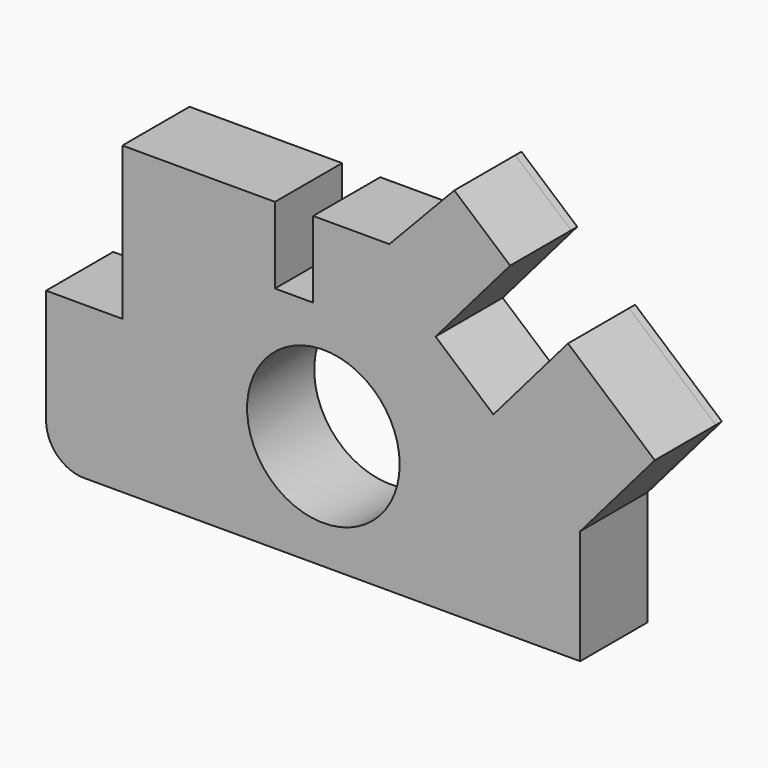
from build123d import *

# Parameters (mm, degrees)
F0_R      = 254
F1_DEPTH  = 25.4
F1_FACE_R = 254
F2_DEPTH  = 254


with BuildPart() as f1:
    # F0 (on Front) → F1 (new body)
    with BuildSketch(Plane.XZ):
        with BuildLine():
            Line((127, 0), (1778, 0))
            Line((1778, 0), (1778, 381))
            Line((1778, 381), (2026.406484, 669.886169))
            Line((2026.406484, 669.886169), (1737.520315, 918.292653))
            Line((1737.520315, 918.292653), (1489.113831, 629.406484))
            Line((1489.113831, 629.406484), (1296.523052, 795.010807))
            Line((1296.523052, 795.010807), (1544.929536, 1083.896976))
            Line((1544.929536, 1083.896976), (1359.019002, 1243.757111))
            Line((1359.019002, 1243.757111), (1143, 1016))
            Line((1143, 1016), (889, 1016))
            Line((889, 1016), (889, 762))
            Line((889, 762), (762, 762))
            Line((762, 762), (762, 1016))
            Line((762, 1016), (254, 1016))
            Line((254, 1016), (254, 508))
            Line((254, 508), (0, 508))
            Line((0, 508), (0, 127))
            ThreePointArc((0, 127), (37.197439, 37.197439), (127, 0))
        make_face()
        with Locations((923.134387, 381)):
            Circle(F0_R, mode=Mode.SUBTRACT)
    extrude(amount=F1_DEPTH)

    # F0 (on Front) + F1_face (on face) → F2 (join)
    with BuildSketch(Plane.XZ):
        with BuildLine():
            Line((127, 0), (1778, 0))
            Line((1778, 0), (1778, 381))
            Line((1778, 381), (2026.406484, 669.886169))
            Line((2026.406484, 669.886169), (1737.520315, 918.292653))
            Line((1737.520315, 918.292653), (1489.113831, 629.406484))
            Line((1489.113831, 629.406484), (1296.523052, 795.010807))
            Line((1296.523052, 795.010807), (1544.929536, 1083.896976))
            Line((1544.929536, 1083.896976), (1359.019002, 1243.757111))
            Line((1359.019002, 1243.757111), (1143, 1016))
            Line((1143, 1016), (889, 1016))
            Line((889, 1016), (889, 762))
            Line((889, 762), (762, 762))
            Line((762, 762), (762, 1016))
            Line((762, 1016), (254, 1016))
            Line((254, 1016), (254, 508))
            Line((254, 508), (0, 508))
            Line((0, 508), (0, 127))
            ThreePointArc((0, 127), (37.197439, 37.197439), (127, 0))
        make_face()
        with Locations((923.134387, 381)):
            Circle(F0_R, mode=Mode.SUBTRACT)
    with BuildSketch(Plane(origin=(967.928983, -25.4, 497.217744), x_dir=(1, 0, 0), z_dir=(0, -1, 0))):
        with BuildLine():
            ThreePointArc((-967.928983, -370.217744), (-930.731544, -460.020305), (-840.928983, -497.217744))
            Line((-840.928983, -497.217744), (810.071017, -497.217744))
            Line((810.071017, -497.217744), (810.071017, -116.217744))
            Line((810.071017, -116.217744), (1058.477502, 172.668425))
            Line((1058.477502, 172.668425), (769.591332, 421.07491))
            Line((769.591332, 421.07491), (521.184848, 132.18874))
            Line((521.184848, 132.18874), (328.594069, 297.793063))
            Line((328.594069, 297.793063), (577.000553, 586.679232))
            Line((577.000553, 586.679232), (391.090019, 746.539368))
            Line((391.090019, 746.539368), (175.071017, 518.782256))
            Line((175.071017, 518.782256), (-78.928983, 518.782256))
            Line((-78.928983, 518.782256), (-78.928983, 264.782256))
            Line((-78.928983, 264.782256), (-205.928983, 264.782256))
            Line((-205.928983, 264.782256), (-205.928983, 518.782256))
            Line((-205.928983, 518.782256), (-713.928983, 518.782256))
            Line((-713.928983, 518.782256), (-713.928983, 10.782256))
            Line((-713.928983, 10.782256), (-967.928983, 10.782256))
            Line((-967.928983, 10.782256), (-967.928983, -370.217744))
        make_face()
        with Locations((-44.794596, -116.217744)):
            Circle(F1_FACE_R, mode=Mode.SUBTRACT)
    extrude(amount=F2_DEPTH)


solid = f1.part
